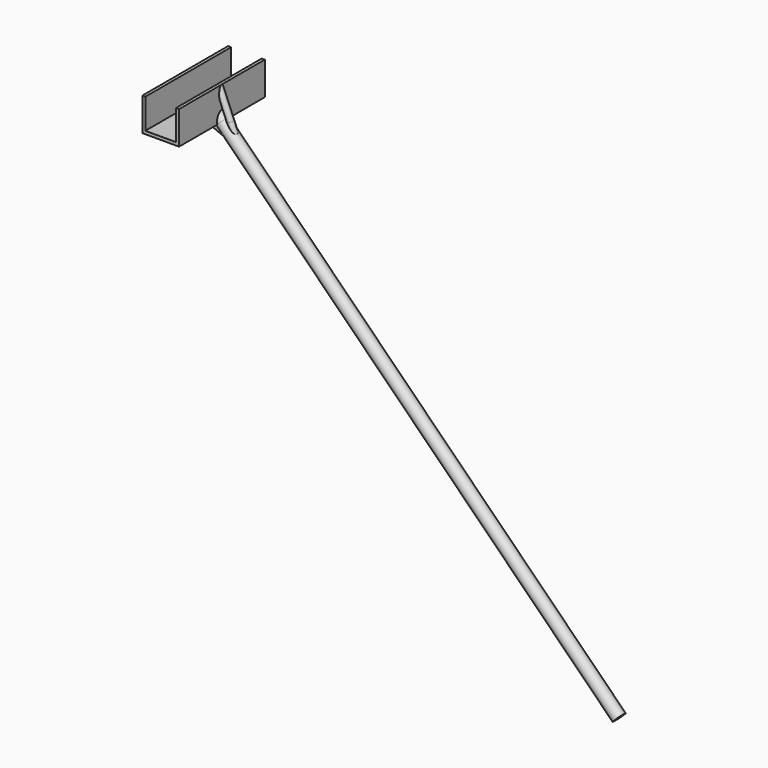
from build123d import *

# Parameters (mm, degrees)
F0_W      = 120
F0_H      = 350
F1_DEPTH  = 10
F2_W      = 10
F2_H      = 350
F4_DEPTH  = 98
F3_W      = 10
F3_H      = 350
F5_DEPTH  = 98
F7_R      = 20
F8_DEPTH  = 1830
F9_DEPTH  = 25
F11_W     = 16
F11_H     = 16.2
F12_DEPTH = 60
F15_R     = 10
F16_DEPTH = 100
F17_DEPTH = 80
F18_R     = 10
F19_DEPTH = 80
F20_DEPTH = 75
F22_W     = 99.9921187758
F22_H     = 98.00377395
F23_DEPTH = 200


with BuildPart() as f1:
    # F0 (on Top) → F1 (new body)
    with BuildSketch(Plane.XY):
        Rectangle(F0_W, F0_H)
    extrude(amount=F1_DEPTH)

    # F2 (on face) → F4 (join)
    with BuildSketch(Plane.XY.offset(10)):
        with Locations((55, 0)):
            Rectangle(F2_W, F2_H)
    extrude(amount=F4_DEPTH)

    # F3 (on face) → F5 (join)
    with BuildSketch(Plane.XY.offset(10)):
        with Locations((-55, 0)):
            Rectangle(F3_W, F3_H)
    extrude(amount=F5_DEPTH)


with BuildPart() as f8:
    # F7 (on face) → F8 (new body)
    with BuildSketch(Plane(origin=(30, 0, -30), x_dir=(0.7071067812, 0, 0.7071067812), z_dir=(0.7071067812, 0, -0.7071067812))):
        with Locations((47.3552543556, 0)):
            Circle(F7_R)
    extrude(amount=F8_DEPTH)


with BuildPart() as f9:
    # F9 (new): a face of the model
    f9_faces = [f8.part.faces().sort_by_distance(p)[0] for p in [
        (63.4852214797, 0, 3.4852214797),
    ]]
    extrude(f9_faces, amount=F9_DEPTH)

    # F11 (on offset) → F12 (cut)
    with BuildSketch(Plane.XZ.offset(25)):
        with Locations((42.2938987613, 17.8038550502)):
            Rectangle(F11_W, F11_H)
    extrude(amount=-F12_DEPTH, mode=Mode.SUBTRACT)


with BuildPart() as f16:
    # F15 (on face) → F16 (new body)
    with BuildSketch(Plane(origin=(8.7867965644, 0, -21.2132034356), x_dir=(0.9238795325, 0, 0.3826834324), z_dir=(0.3826834324, 0, -0.9238795325))):
        with Locations((87.0194658637, 1.2923743343)):
            Circle(F15_R)
    extrude(amount=-F16_DEPTH)


with BuildPart() as f17:
    # F17 (new): a face of the model
    f17_faces = [f16.part.faces().sort_by_distance(p)[0] for p in [
        (89.1823000059, -1.2923743343, 12.0877044437),
    ]]
    extrude(f17_faces, amount=F17_DEPTH)


with BuildPart() as f19:
    # F18 (on face) → F19 (new body)
    with BuildSketch(Plane(origin=(51.2132034356, 0, -21.2132034356), x_dir=(0, 1, 0), z_dir=(0.9238795325, 0, -0.3826834324))):
        with Locations((-1.7318965402, 3.955797758)):
            Circle(F18_R)
    extrude(amount=F19_DEPTH)


with BuildPart() as f20:
    # F20 (new): a face of the model
    f20_faces = [f19.part.faces().sort_by_distance(p)[0] for p in [
        (52.7270216994, -1.7318965402, -17.5585228523),
    ]]
    extrude(f20_faces, amount=F20_DEPTH)


with BuildPart() as f23_tool:
    # F22 (on offset) → F23 (new body)
    with BuildSketch(Plane(origin=(0, 175, 0), x_dir=(-1, 0, 0), z_dir=(0, 1, 0))):
        with Locations((-0.0039339066, 59.0021540411)):
            Rectangle(F22_W, F22_H)
    extrude(amount=-F23_DEPTH)


with BuildPart() as f16_1:
    add(f16.part)

    # F23: cut by f23_tool
    add(f23_tool.part, mode=Mode.SUBTRACT)


with BuildPart() as f20_1:
    add(f20.part)

    # F23: cut by f23_tool
    add(f23_tool.part, mode=Mode.SUBTRACT)


solid = Compound([f1.part, f8.part, f9.part, f17.part, f19.part, f16_1.part, f20_1.part])
